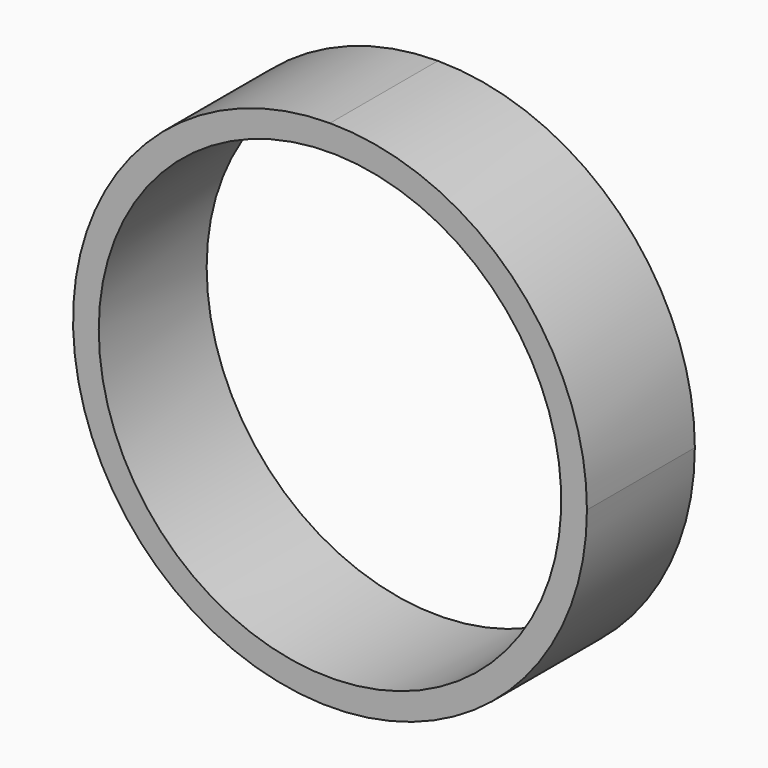
from build123d import *

# Parameters (mm, degrees)
F1_DEPTH = 20
F3_D     = 68.58


with BuildPart() as f1:
    # F0 (on Front) → F1 (new body)
    with BuildSketch(Plane.XZ):
        with BuildLine():
            ThreePointArc((-26.733387, 65.246565), (-53.674156, 0.205797), (11.366613, 27.146565))
            ThreePointArc((11.366613, 27.146565), (0.207381, 54.087334), (-26.733387, 65.246565))
        make_face()
    extrude(amount=F1_DEPTH)

    # F3 (through all)
    with Locations(Plane.XZ.offset(20)):
        with Locations((-26.733387, 27.146565)):
            Hole(F3_D / 2)


solid = f1.part
